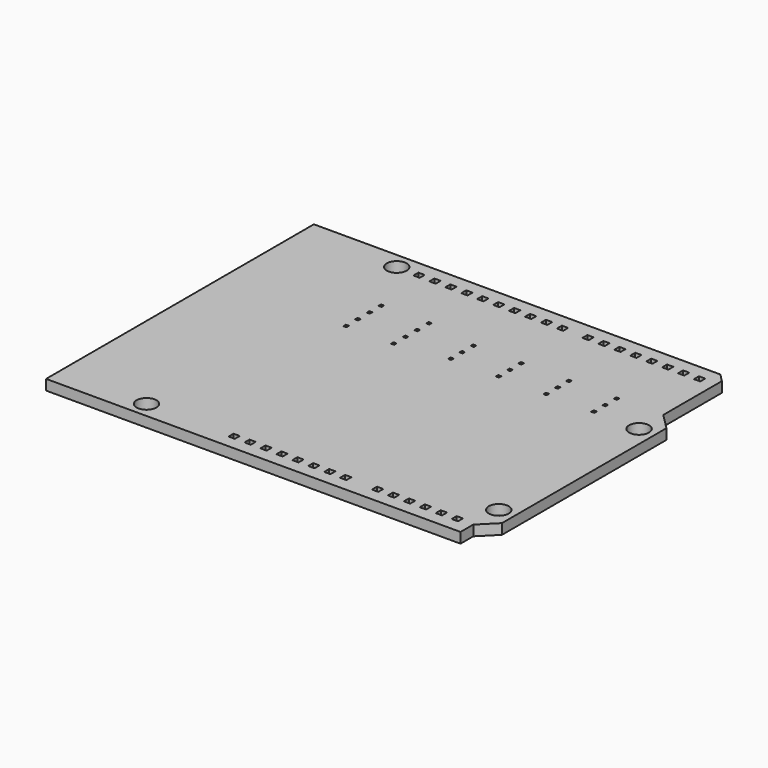
from build123d import *

# Parameters (mm, degrees)
F0_R     = 1.5875
F0_W     = 1
F0_H     = 1
F0_W_2   = 0.5
F0_H_2   = 0.5
F1_DEPTH = 1.65


with BuildPart() as f1:
    # F0 (on Top) → F1 (new body)
    with BuildSketch(Plane.XY):
        Polygon((0, 53.34), (0, 0), (66.04, 0), (66.04, 2.54), (68.58, 5.08), (68.58, 37.846), (66.04, 40.386), (66.04, 52.07), (64.77, 53.34), align=None)
        with Locations((13.97, 2.54)):
            Circle(F0_R, mode=Mode.SUBTRACT)
        with Locations((27.94, 2.54)):
            Rectangle(F0_W, F0_H, mode=Mode.SUBTRACT)
        with Locations((30.48, 2.54)):
            Rectangle(F0_W, F0_H, mode=Mode.SUBTRACT)
        with Locations((33.02, 2.54)):
            Rectangle(F0_W, F0_H, mode=Mode.SUBTRACT)
        with Locations((35.56, 2.54)):
            Rectangle(F0_W, F0_H, mode=Mode.SUBTRACT)
        with Locations((38.1, 2.54)):
            Rectangle(F0_W, F0_H, mode=Mode.SUBTRACT)
        with Locations((40.64, 2.54)):
            Rectangle(F0_W, F0_H, mode=Mode.SUBTRACT)
        with Locations((43.18, 2.54)):
            Rectangle(F0_W, F0_H, mode=Mode.SUBTRACT)
        with Locations((45.72, 2.54)):
            Rectangle(F0_W, F0_H, mode=Mode.SUBTRACT)
        with Locations((50.8, 2.54)):
            Rectangle(F0_W, F0_H, mode=Mode.SUBTRACT)
        with Locations((53.34, 2.54)):
            Rectangle(F0_W, F0_H, mode=Mode.SUBTRACT)
        with Locations((55.88, 2.54)):
            Rectangle(F0_W, F0_H, mode=Mode.SUBTRACT)
        with Locations((58.42, 2.54)):
            Rectangle(F0_W, F0_H, mode=Mode.SUBTRACT)
        with Locations((60.96, 2.54)):
            Rectangle(F0_W, F0_H, mode=Mode.SUBTRACT)
        with Locations((63.5, 2.54)):
            Rectangle(F0_W, F0_H, mode=Mode.SUBTRACT)
        with Locations((66.04, 7.62)):
            Circle(F0_R, mode=Mode.SUBTRACT)
        with Locations((20.25, 34.455)):
            Rectangle(F0_W_2, F0_H_2, mode=Mode.SUBTRACT)
        with Locations((20.25, 36.788333)):
            Rectangle(F0_W_2, F0_H_2, mode=Mode.SUBTRACT)
        with Locations((20.25, 39.121667)):
            Rectangle(F0_W_2, F0_H_2, mode=Mode.SUBTRACT)
        with Locations((27.85, 34.455)):
            Rectangle(F0_W_2, F0_H_2, mode=Mode.SUBTRACT)
        with Locations((27.85, 36.788333)):
            Rectangle(F0_W_2, F0_H_2, mode=Mode.SUBTRACT)
        with Locations((27.85, 39.121667)):
            Rectangle(F0_W_2, F0_H_2, mode=Mode.SUBTRACT)
        with Locations((15.24, 50.8)):
            Circle(F0_R, mode=Mode.SUBTRACT)
        with Locations((20.25, 41.455)):
            Rectangle(F0_W_2, F0_H_2, mode=Mode.SUBTRACT)
        with Locations((27.85, 41.455)):
            Rectangle(F0_W_2, F0_H_2, mode=Mode.SUBTRACT)
        with Locations((18.796, 50.8)):
            Rectangle(F0_W, F0_H, mode=Mode.SUBTRACT)
        with Locations((21.336, 50.8)):
            Rectangle(F0_W, F0_H, mode=Mode.SUBTRACT)
        with Locations((23.876, 50.8)):
            Rectangle(F0_W, F0_H, mode=Mode.SUBTRACT)
        with Locations((26.416, 50.8)):
            Rectangle(F0_W, F0_H, mode=Mode.SUBTRACT)
        with Locations((28.956, 50.8)):
            Rectangle(F0_W, F0_H, mode=Mode.SUBTRACT)
        with Locations((31.496, 50.8)):
            Rectangle(F0_W, F0_H, mode=Mode.SUBTRACT)
        with Locations((34.036, 50.8)):
            Rectangle(F0_W, F0_H, mode=Mode.SUBTRACT)
        with Locations((35.95, 35.705)):
            Rectangle(F0_W_2, F0_H_2, mode=Mode.SUBTRACT)
        with Locations((35.95, 37.955)):
            Rectangle(F0_W_2, F0_H_2, mode=Mode.SUBTRACT)
        with Locations((43.55, 35.705)):
            Rectangle(F0_W_2, F0_H_2, mode=Mode.SUBTRACT)
        with Locations((51.15, 35.705)):
            Rectangle(F0_W_2, F0_H_2, mode=Mode.SUBTRACT)
        with Locations((43.55, 37.955)):
            Rectangle(F0_W_2, F0_H_2, mode=Mode.SUBTRACT)
        with Locations((51.15, 37.955)):
            Rectangle(F0_W_2, F0_H_2, mode=Mode.SUBTRACT)
        with Locations((58.75, 35.705)):
            Rectangle(F0_W_2, F0_H_2, mode=Mode.SUBTRACT)
        with Locations((58.75, 37.955)):
            Rectangle(F0_W_2, F0_H_2, mode=Mode.SUBTRACT)
        with Locations((66.04, 35.56)):
            Circle(F0_R, mode=Mode.SUBTRACT)
        with Locations((35.95, 40.205)):
            Rectangle(F0_W_2, F0_H_2, mode=Mode.SUBTRACT)
        with Locations((43.55, 40.205)):
            Rectangle(F0_W_2, F0_H_2, mode=Mode.SUBTRACT)
        with Locations((51.15, 40.205)):
            Rectangle(F0_W_2, F0_H_2, mode=Mode.SUBTRACT)
        with Locations((36.576, 50.8)):
            Rectangle(F0_W, F0_H, mode=Mode.SUBTRACT)
        with Locations((39.116, 50.8)):
            Rectangle(F0_W, F0_H, mode=Mode.SUBTRACT)
        with Locations((41.656, 50.8)):
            Rectangle(F0_W, F0_H, mode=Mode.SUBTRACT)
        with Locations((45.72, 50.8)):
            Rectangle(F0_W, F0_H, mode=Mode.SUBTRACT)
        with Locations((48.26, 50.8)):
            Rectangle(F0_W, F0_H, mode=Mode.SUBTRACT)
        with Locations((50.8, 50.8)):
            Rectangle(F0_W, F0_H, mode=Mode.SUBTRACT)
        with Locations((58.75, 40.205)):
            Rectangle(F0_W_2, F0_H_2, mode=Mode.SUBTRACT)
        with Locations((53.34, 50.8)):
            Rectangle(F0_W, F0_H, mode=Mode.SUBTRACT)
        with Locations((55.88, 50.8)):
            Rectangle(F0_W, F0_H, mode=Mode.SUBTRACT)
        with Locations((58.42, 50.8)):
            Rectangle(F0_W, F0_H, mode=Mode.SUBTRACT)
        with Locations((60.96, 50.8)):
            Rectangle(F0_W, F0_H, mode=Mode.SUBTRACT)
        with Locations((63.5, 50.8)):
            Rectangle(F0_W, F0_H, mode=Mode.SUBTRACT)
    extrude(amount=F1_DEPTH)


solid = f1.part
